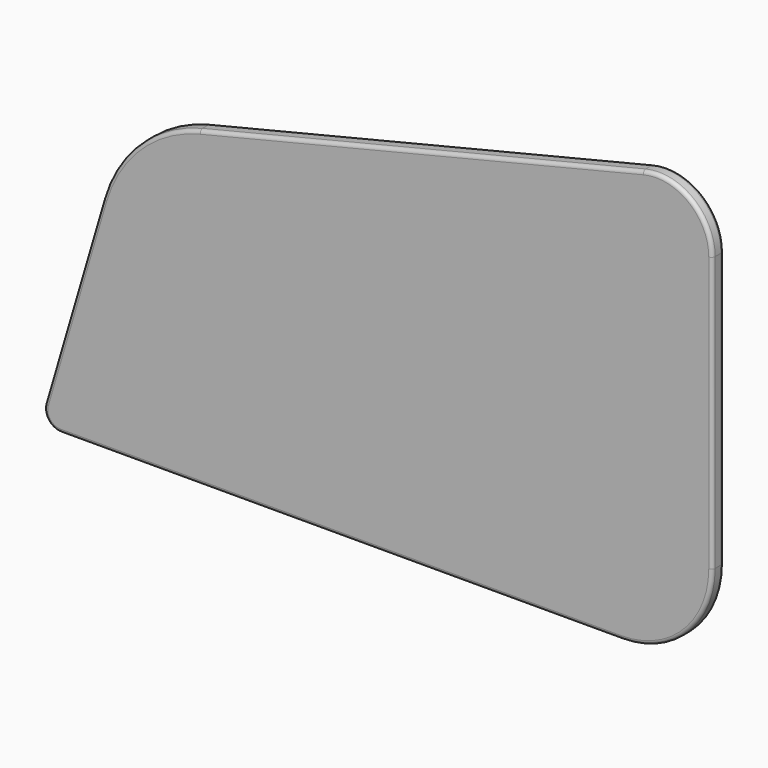
from build123d import *

# Parameters (mm, degrees)
F1_DEPTH = 10
F2_R     = 5


with BuildPart() as f1:
    # F0 (on Front) → F1 (new body, symmetric)
    with BuildSketch(Plane.XZ):
        with BuildLine():
            Line((-30.288021, 250.545293), (-111.82384, -27.369829))
            ThreePointArc((-111.82384, -27.369829), (-108.174209, -47.551816), (-89.827259, -56.718156))
            Line((-89.827259, -56.718156), (693.757768, -55.979899))
            ThreePointArc((693.757768, -55.979899), (783.507042, -18.730212), (820.672154, 71.054117))
            Line((820.672154, 71.054117), (820.672154, 454.555666))
            ThreePointArc((820.672154, 454.555666), (790.670941, 516.243982), (723.621847, 530.733294))
            Line((723.621847, 530.733294), (104.508811, 379.338224))
            ThreePointArc((104.508811, 379.338224), (19.883125, 332.972107), (-30.288021, 250.545293))
        make_face()
    extrude(amount=F1_DEPTH, both=True)

    # F2
    f2_edges = [f1.edges().sort_by_distance(p)[0] for p in [
        (19.883125, -10, 332.972107),
        (414.065329, -10, 455.035759),
        (790.670941, -10, 516.243982),
        (820.672154, -10, 262.804891),
        (783.507042, -10, -18.730212),
        (301.965255, -10, -56.349027),
        (-108.174209, 10, -47.551816),
        (-71.055931, -10, 111.587732),
        (-71.055931, 10, 111.587732),
        (19.883125, 10, 332.972107),
        (301.965255, 10, -56.349027),
    ]]
    fillet(f2_edges, radius=F2_R)


solid = f1.part
